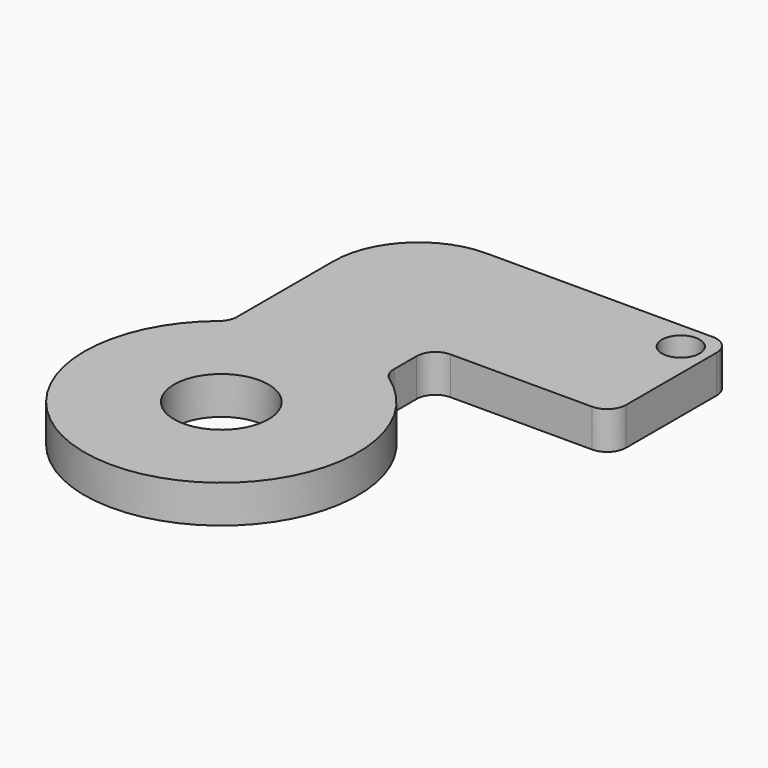
from build123d import *

# Parameters (mm, degrees)
F0_R     = 2.5
F0_R_2   = 1
F1_DEPTH = 2


with BuildPart() as f1:
    # F0 (on Top) → F1 (new body)
    with BuildSketch(Plane.XY):
        with BuildLine():
            ThreePointArc((-4.25, 6.363961), (-4.345466, 5.93756), (-4.613636, 5.592572))
            ThreePointArc((-4.613636, 5.592572), (0.27632, -7.244732), (4.174242, 5.927748))
            ThreePointArc((4.174242, 5.927748), (3.862375, 6.284803), (3.75, 6.745369))
            Line((3.75, 6.745369), (3.75, 8.25))
            ThreePointArc((3.75, 8.25), (4.042893, 8.957107), (4.75, 9.25))
            Line((4.75, 9.25), (12.25, 9.25))
            ThreePointArc((12.25, 9.25), (12.957107, 9.542893), (13.25, 10.25))
            Line((13.25, 10.25), (13.25, 16.25))
            ThreePointArc((13.25, 16.25), (12.957107, 16.957107), (12.25, 17.25))
            Line((12.25, 17.25), (0.25, 17.25))
            ThreePointArc((0.25, 17.25), (-2.931981, 15.931981), (-4.25, 12.75))
            Line((-4.25, 12.75), (-4.25, 6.363961))
        make_face()
        Circle(F0_R, mode=Mode.SUBTRACT)
        with Locations((11.75, 15.75)):
            Circle(F0_R_2, mode=Mode.SUBTRACT)
    extrude(amount=F1_DEPTH)


solid = f1.part
